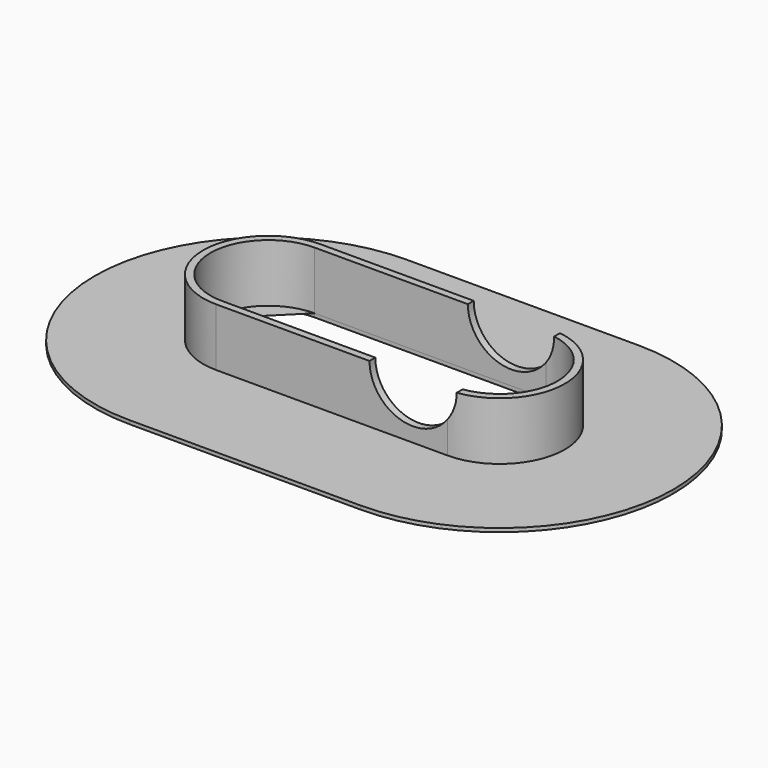
from build123d import *

# Parameters (mm, degrees)
F1_DEPTH = 0.8
F3_DEPTH = 12.7
F5_D     = 19.05


with BuildPart() as f1:
    # F0 (on Top) → F1 (new body)
    with BuildSketch(Plane.XY):
        Polygon((1.94975, 4.888986), (27.34975, 4.888986), (27.34975, 30.288986), (1.94975, 30.288986), (-23.45025, 30.288986), (-23.45025, 4.888986), align=None)
        with BuildLine():
            Line((27.34975, 30.288986), (27.34975, 4.888986))
            ThreePointArc((27.34975, 4.888986), (36.330006, 1.169242), (40.04975, -7.811014))
            Line((40.04975, -7.811014), (65.44975, -7.811014))
            ThreePointArc((65.44975, -7.811014), (54.290518, 19.129754), (27.34975, 30.288986))
        make_face()
        with BuildLine():
            Line((65.44975, -7.811014), (40.04975, -7.811014))
            ThreePointArc((40.04975, -7.811014), (36.330006, -16.791271), (27.34975, -20.511014))
            Line((27.34975, -20.511014), (27.34975, -45.911014))
            ThreePointArc((27.34975, -45.911014), (54.290518, -34.751783), (65.44975, -7.811014))
        make_face()
        Polygon((27.34975, -45.911014), (27.34975, -20.511014), (1.94975, -20.511014), (-23.45025, -20.511014), (-23.45025, -45.911014), (1.94975, -45.911014), align=None)
        with BuildLine():
            ThreePointArc((-23.45025, -20.511014), (-32.430506, -16.791271), (-36.15025, -7.811014))
            Line((-36.15025, -7.811014), (-61.55025, -7.811014))
            ThreePointArc((-61.55025, -7.811014), (-50.391018, -34.751783), (-23.45025, -45.911014))
            Line((-23.45025, -45.911014), (-23.45025, -20.511014))
        make_face()
        with BuildLine():
            ThreePointArc((-36.15025, -7.811014), (-32.430506, 1.169242), (-23.45025, 4.888986))
            Line((-23.45025, 4.888986), (-23.45025, 30.288986))
            ThreePointArc((-23.45025, 30.288986), (-50.391018, 19.129754), (-61.55025, -7.811014))
            Line((-61.55025, -7.811014), (-36.15025, -7.811014))
        make_face()
    extrude(amount=F1_DEPTH)

    # F2 (on face) → F3 (join)
    with BuildSketch(Plane.XY.offset(0.8)):
        with BuildLine():
            ThreePointArc((27.34975, -22.111014), (41.64975, -7.811014), (27.34975, 6.488985))
            Line((27.34975, 6.488985), (-23.45025, 6.488985))
            ThreePointArc((-23.45025, 6.488985), (-37.75025, -7.811014), (-23.45025, -22.111014))
            Line((-23.45025, -22.111014), (27.34975, -22.111014))
        make_face()
        with BuildLine():
            Line((-23.45025, 4.888985), (27.34975, 4.888985))
            ThreePointArc((27.34975, 4.888985), (40.04975, -7.811014), (27.34975, -20.511014))
            Line((27.34975, -20.511014), (-23.45025, -20.511014))
            ThreePointArc((-23.45025, -20.511014), (-36.15025, -7.811014), (-23.45025, 4.888985))
        make_face(mode=Mode.SUBTRACT)
    extrude(amount=F3_DEPTH)

    # F5 (through all)
    with Locations(Plane.XZ.offset(22.111014)):
        with Locations((19.72975, 13.5)):
            Hole(F5_D / 2)


solid = f1.part
